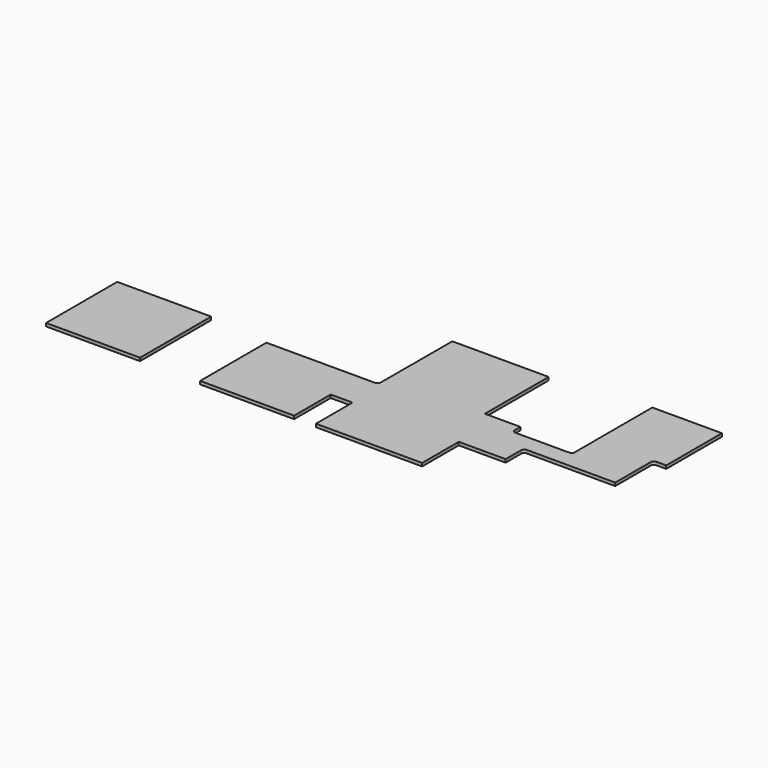
from build123d import *

# Parameters (mm, degrees)
F0_R     = 1.5875
F2_DEPTH = 1.5748


with BuildPart() as f2:
    # F0 (on Top) + F1 (on Top) → F2 (new body)
    with BuildSketch(Plane.XY):
        with BuildLine():
            Line((105.41, 47.043695), (105.41, 53.393695))
            Line((105.41, 53.393695), (87.1855, 53.393695))
            ThreePointArc((87.1855, 53.393695), (86.062968, 52.928728), (85.598, 51.806195))
            Line((85.598, 51.806195), (85.598, 48.631195))
            ThreePointArc((85.598, 48.631195), (86.062968, 47.508663), (87.1855, 47.043695))
            Line((87.1855, 47.043695), (105.41, 47.043695))
        make_face()
        with BuildLine():
            Line((1.27, 40.693695), (1.27, -0.708305))
            Line((1.27, -0.708305), (48.26, -0.708305))
            Line((48.26, -0.708305), (48.26, 22.151695))
            Line((48.26, 22.151695), (59.176959, 22.151695))
            Line((59.176959, 22.151695), (59.176959, -0.708305))
            Line((59.176959, -0.708305), (112.268, -0.708305))
            Line((112.268, -0.708305), (112.268, 22.151695))
            Line((112.268, 22.151695), (123.19, 22.151695))
            Line((123.19, 22.151695), (135.712042, 22.151695))
            Line((135.712042, 22.151695), (135.712042, 31.797907))
            ThreePointArc((135.712042, 31.797907), (136.18073, 32.929419), (137.312242, 33.398107))
            Line((137.312242, 33.398107), (181.483, 33.398107))
            Line((181.483, 33.398107), (181.483, 55.616195))
            ThreePointArc((181.483, 55.616195), (181.947968, 56.738728), (183.0705, 57.203695))
            Line((183.0705, 57.203695), (187.96, 57.203695))
            Line((187.96, 57.203695), (187.96, 74.221695))
            Line((187.96, 74.221695), (187.96, 87.366195))
            Line((187.96, 87.366195), (187.96, 92.001695))
            Line((187.96, 92.001695), (183.58612, 92.001695))
            Line((183.58612, 92.001695), (173.99, 92.001695))
            Line((173.99, 92.001695), (173.99, 75.809195))
            ThreePointArc((173.99, 75.809195), (173.525032, 74.686663), (172.4025, 74.221695))
            Line((172.4025, 74.221695), (153.162, 74.221695))
            Line((153.162, 74.221695), (153.162, 43.551195))
            ThreePointArc((153.162, 43.551195), (152.697032, 42.428663), (151.5745, 41.963695))
            Line((151.5745, 41.963695), (124.7775, 41.963695))
            ThreePointArc((124.7775, 41.963695), (123.654968, 42.428663), (123.19, 43.551195))
            Line((123.19, 43.551195), (123.19, 47.043695))
            Line((123.19, 47.043695), (105.41, 47.043695))
            Line((105.41, 47.043695), (87.1855, 47.043695))
            ThreePointArc((87.1855, 47.043695), (86.062968, 47.508663), (85.598, 48.631195))
            Line((85.598, 48.631195), (85.598, 51.806195))
            ThreePointArc((85.598, 51.806195), (86.062968, 52.928728), (87.1855, 53.393695))
            Line((87.1855, 53.393695), (105.41, 53.393695))
            Line((105.41, 53.393695), (105.41, 86.921695))
            Line((105.41, 86.921695), (57.228073, 86.921695))
            Line((57.228073, 86.921695), (57.169435, 53.393695))
            Line((57.169435, 53.393695), (57.15, 42.281195))
            ThreePointArc((57.15, 42.281195), (56.685032, 41.158663), (55.5625, 40.693695))
            Line((55.5625, 40.693695), (1.27, 40.693695))
        make_face()
        with Locations((5.6515, 4.181195)):
            Circle(F0_R, mode=Mode.SUBTRACT)
        with Locations((24.7015, 4.181195)):
            Circle(F0_R, mode=Mode.SUBTRACT)
        with Locations((43.7515, 4.181195)):
            Circle(F0_R, mode=Mode.SUBTRACT)
        with Locations((183.58612, 61.966195)):
            Circle(F0_R, mode=Mode.SUBTRACT)
        with Locations((183.58612, 87.366195)):
            Circle(F0_R, mode=Mode.SUBTRACT)
        with BuildLine():
            Line((153.162, 92.001695), (153.162, 74.221695))
            Line((153.162, 74.221695), (172.4025, 74.221695))
            ThreePointArc((172.4025, 74.221695), (173.525032, 74.686663), (173.99, 75.809195))
            Line((173.99, 75.809195), (173.99, 92.001695))
            Line((173.99, 92.001695), (153.162, 92.001695))
        make_face()
        with Locations((183.58612, 87.366195)):
            Circle(F0_R)
        with Locations((43.7515, 4.181195)):
            Circle(F0_R)
        with Locations((24.7015, 4.181195)):
            Circle(F0_R)
        with Locations((5.6515, 4.181195)):
            Circle(F0_R)
        with Locations((183.58612, 61.966195)):
            Circle(F0_R)
    with BuildSketch(Plane.XY):
        Polygon((-76.316573, 19.05), (-76.316573, 0), (-40.756573, 0), (-29.326573, 0), (-29.326573, 19.05), (-29.326573, 44.45), (-40.756573, 44.45), (-68.509936, 44.45), (-76.316573, 44.45), align=None)
    extrude(amount=F2_DEPTH)


solid = f2.part
